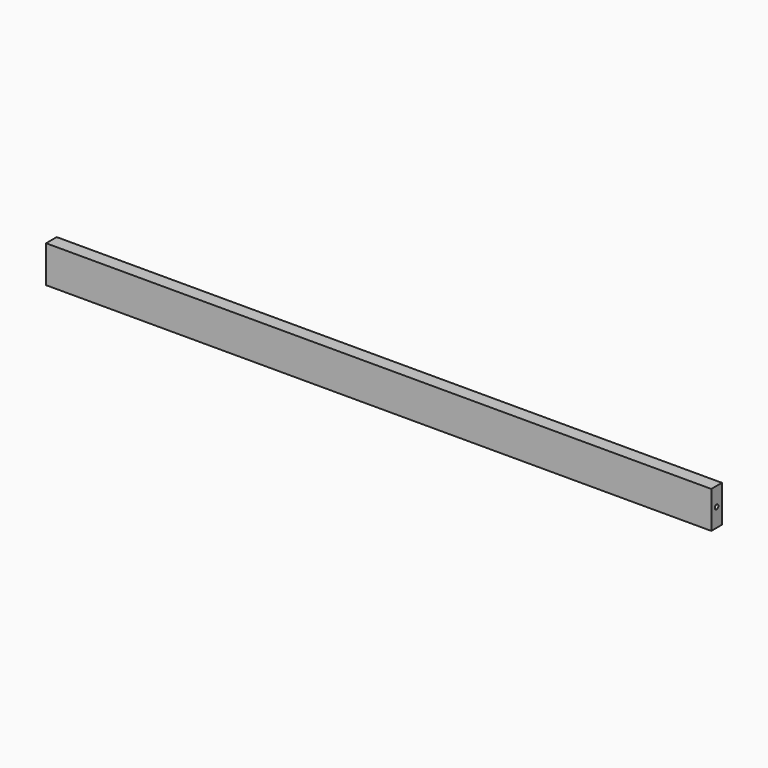
from build123d import *

# Parameters (mm, degrees)
F0_W          = 900
F0_H          = 50
F1_DEPTH      = 18
F2_R          = 3
F3_DEPTH      = 25
F4_DEPTH      = 900.001
F4_DEPTH_BACK = 25


with BuildPart() as f1:
    # F0 (on Front) → F1 (new body)
    with BuildSketch(Plane.XZ):
        with Locations((450, 25)):
            Rectangle(F0_W, F0_H)
    extrude(amount=F1_DEPTH)

    # F2 (on face) → F3 (cut)
    with BuildSketch(Plane(origin=(0, 0, 0), x_dir=(0, -1, 0), z_dir=(-1, 0, 0))):
        with Locations((9, 25)):
            Circle(F2_R)
    extrude(amount=-F3_DEPTH, mode=Mode.SUBTRACT)

    # F2 (on face) → F4 (cut, two sides)
    with BuildSketch(Plane(origin=(0, 0, 0), x_dir=(0, -1, 0), z_dir=(-1, 0, 0))) as f4_sk:
        with Locations((9, 25)):
            Circle(F2_R)
    extrude(amount=-F4_DEPTH, mode=Mode.SUBTRACT)
    extrude(f4_sk.sketch, amount=-F4_DEPTH_BACK, mode=Mode.SUBTRACT)


solid = f1.part
